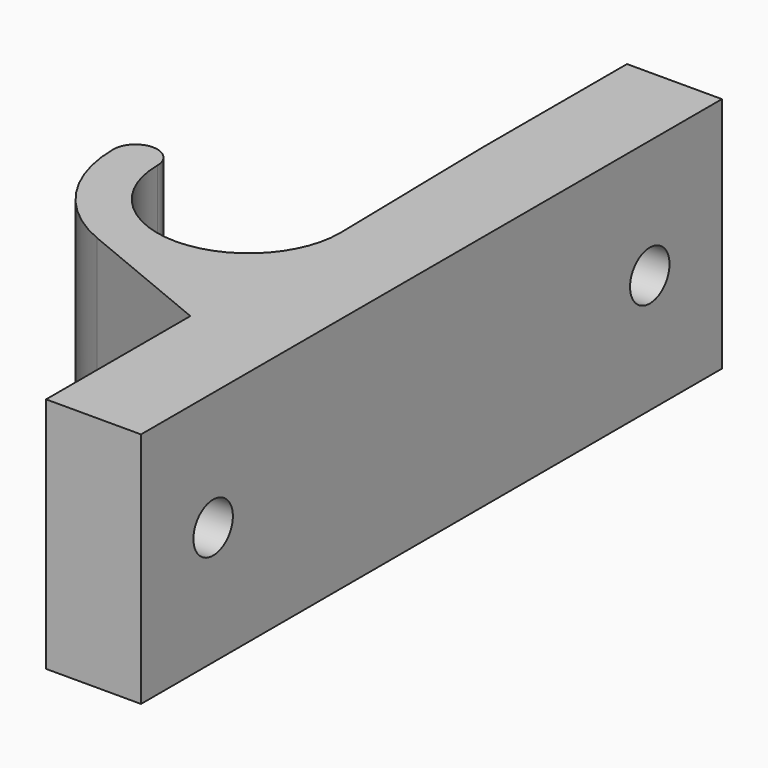
from build123d import *

# Parameters (mm, degrees)
F3_DEPTH = 31.75
F4_R     = 3.302
F5_DEPTH = 12.7
F6_DEPTH = 6.35


with BuildPart() as f3:
    # F2 (on Top) → F3 (new body)
    with BuildSketch(Plane.XY):
        with BuildLine():
            Line((24.45, -48.5775), (24.45, 48.5775))
            Line((24.45, 48.5775), (11.75, 48.5775))
            Line((11.75, 48.5775), (11.75, 24.4475))
            Line((11.75, 24.4475), (12.225, 0))
            ThreePointArc((12.225, 0), (0, -12.225), (-12.225, 0))
            ThreePointArc((-12.225, 0), (-15.1625, 2.9375), (-18.1, 0))
            ThreePointArc((-18.1, 0), (-15.0471149103, -10.0595393968), (-6.9183057596, -16.7256403589))
            Line((-6.9183057596, -16.7256403589), (11.75, -24.4475))
            Line((11.75, -24.4475), (11.75, -48.5775))
            Line((11.75, -48.5775), (24.45, -48.5775))
        make_face()
    extrude(amount=F3_DEPTH)

    # F4 (on face) → F5 (cut, through all)
    with BuildSketch(Plane(origin=(11.75, 0, 0), x_dir=(0, -1, 0), z_dir=(-1, 0, 0))):
        with Locations((-36.5125, 15.875)):
            Circle(F4_R)
        with Locations((36.5125, 15.875)):
            Circle(F4_R)
    extrude(amount=-F5_DEPTH, mode=Mode.SUBTRACT)

    # F4 (on face) → F6 (cut)
    with BuildSketch(Plane(origin=(11.75, 0, 0), x_dir=(0, -1, 0), z_dir=(-1, 0, 0))):
        Polygon((-30.7975, 12.5754432116), (-30.7975, 19.1745567884), (-36.5125, 22.4741135768), (-42.2275, 19.1745567884), (-42.2275, 12.5754432116), (-36.5125, 9.2758864232), align=None)
        with Locations((-36.5125, 15.875)):
            Circle(F4_R, mode=Mode.SUBTRACT)
        Polygon((30.7975, 19.1745567884), (30.7975, 12.5754432116), (36.5125, 9.2758864232), (42.2275, 12.5754432116), (42.2275, 19.1745567884), (36.5125, 22.4741135768), align=None)
        with Locations((36.5125, 15.875)):
            Circle(F4_R, mode=Mode.SUBTRACT)
    extrude(amount=-F6_DEPTH, mode=Mode.SUBTRACT)


solid = f3.part
